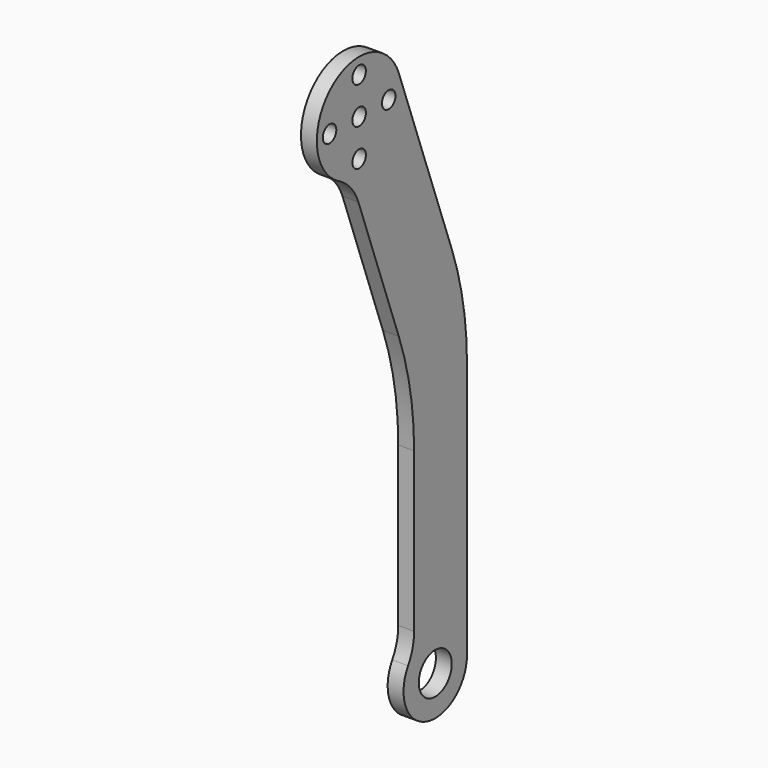
from build123d import *

# Parameters (mm, degrees)
SKETCH049_R   = 1.6
SKETCH049_R_2 = 3.9
PAD027_DEPTH  = 3
FILLET016_R   = 60
FILLET017_R   = 10


with BuildPart() as part:
    # Sketch049 → Pad027 (new body)
    with BuildSketch(Plane.YZ):
        with BuildLine():
            ThreePointArc((9.3969262079, 3.4202014333), (-7.6604444312, 6.4278760969), (-1.7364817767, -9.8480775301))
            Line((-1.7364817767, -9.8480775301), (13, -50.3362284537))
            Line((13, -50.3362284537), (13, -94.4098300562))
            ThreePointArc((13, -94.4098300562), (14.9381378215, -106.8465319688), (25.5, -100))
            Line((25.5, -40.8226301945), (25.5, -100))
            Line((9.3969262079, 3.4202014333), (25.5, -40.8226301945))
        make_face()
        with Locations((0, 7)):
            Circle(SKETCH049_R, mode=Mode.SUBTRACT)
        with Locations((7, 0)):
            Circle(SKETCH049_R, mode=Mode.SUBTRACT)
        with Locations((0, -7)):
            Circle(SKETCH049_R, mode=Mode.SUBTRACT)
        with Locations((-7, 0)):
            Circle(SKETCH049_R, mode=Mode.SUBTRACT)
        Circle(SKETCH049_R, mode=Mode.SUBTRACT)
        with Locations((18, -100)):
            Circle(SKETCH049_R_2, mode=Mode.SUBTRACT)
    extrude(amount=PAD027_DEPTH)

    # Fillet016
    fillet016_edges = [part.edges().sort_by_distance(p)[0] for p in [
        (1.5, 13, -50.336228),
        (1.5, 25.5, -40.82263),
    ]]
    fillet(fillet016_edges, radius=FILLET016_R)

    # Fillet017
    fillet017_edges = [part.edges().sort_by_distance(p)[0] for p in [
        (1.5, 13, -94.40983),
        (1.5, -1.736482, -9.848078),
    ]]
    fillet(fillet017_edges, radius=FILLET017_R)


solid = part.part
